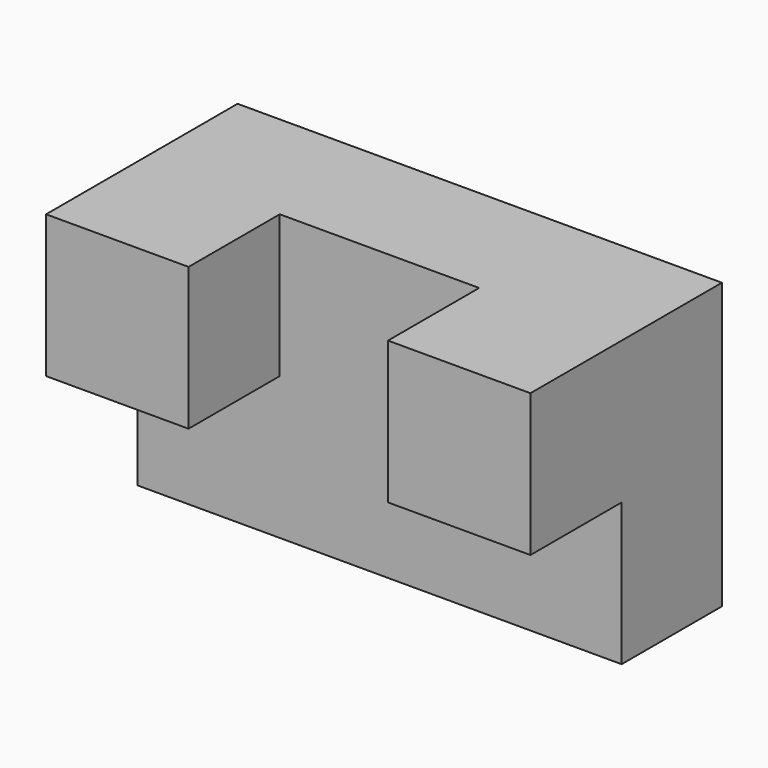
from build123d import *

# Parameters (mm, degrees)
F1_DEPTH = 22
F0_W     = 25
F0_H     = 25
F2_DEPTH = 42


with BuildPart() as f1:
    # F0 (on Front) → F1 (new body)
    with BuildSketch(Plane.XZ):
        Polygon((0, 25), (0, 0), (85, 0), (85, 25), (60, 25), (60, 50), (25, 50), (25, 25), align=None)
    extrude(amount=F1_DEPTH)

    # F0 (on Front) → F2 (join)
    with BuildSketch(Plane.XZ):
        with Locations((12.5, 37.5)):
            Rectangle(F0_W, F0_H)
        with Locations((72.5, 37.5)):
            Rectangle(F0_W, F0_H)
    extrude(amount=F2_DEPTH)


solid = f1.part
